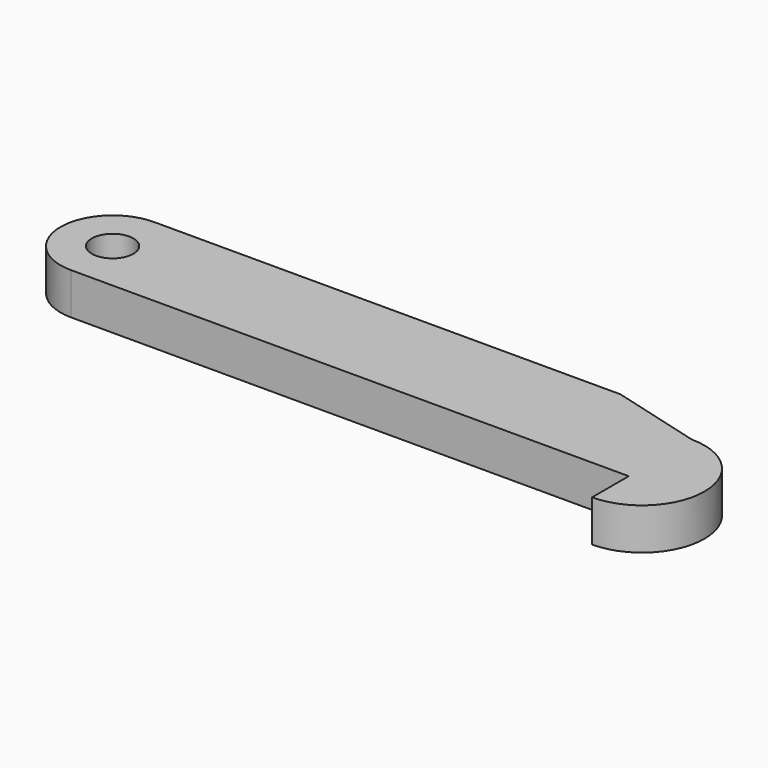
from build123d import *

# Parameters (mm, degrees)
F0_R     = 2.5
F1_DEPTH = 5


with BuildPart() as f1:
    # F0 (on Top) → F1 (new body)
    with BuildSketch(Plane.XY):
        with BuildLine():
            Line((11, 3.25), (0, 6.25))
            Line((0, 6.25), (-56, 6.25))
            ThreePointArc((-56, 6.25), (-62.25, 0), (-56, -6.25))
            Line((-56, -6.25), (11, -6.25))
            Line((11, -6.25), (11, -11.75))
            ThreePointArc((11, -11.75), (18.5, -4.25), (11, 3.25))
        make_face()
        with Locations((-56, 0)):
            Circle(F0_R, mode=Mode.SUBTRACT)
    extrude(amount=F1_DEPTH)


solid = f1.part
